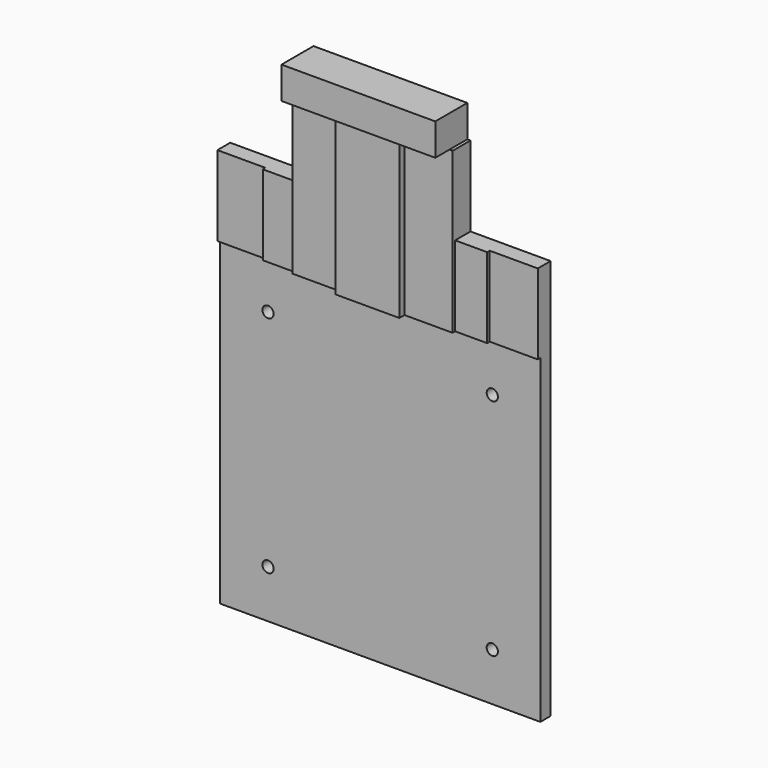
from build123d import *

# Parameters (mm, degrees)
F0_R     = 3.5
F1_DEPTH = 8
F0_W     = 30
F0_H     = 50
F2_DEPTH = 10
F0_W_2   = 20
F3_DEPTH = 12
F4_DEPTH = 14
F0_W_3   = 40
F5_DEPTH = 18
F6_DEPTH = 25


with BuildPart() as f1:
    # F0 (on Front) → F1 (new body)
    with BuildSketch(Plane.XZ):
        Polygon((-70, 100), (-100, 100), (-100, -100), (100, -100), (100, 100), (70, 100), (50, 100), (20, 100), (-20, 100), (-50, 100), align=None)
        with Locations((-70, -70)):
            Circle(F0_R, mode=Mode.SUBTRACT)
        with Locations((70, -70)):
            Circle(F0_R, mode=Mode.SUBTRACT)
        with Locations((-70, 70)):
            Circle(F0_R, mode=Mode.SUBTRACT)
        with Locations((70, 70)):
            Circle(F0_R, mode=Mode.SUBTRACT)
    extrude(amount=F1_DEPTH)

    # F0 (on Front) → F2 (join)
    with BuildSketch(Plane.XZ):
        with Locations((-85, 125)):
            Rectangle(F0_W, F0_H)
        with Locations((85, 125)):
            Rectangle(F0_W, F0_H)
    extrude(amount=F2_DEPTH)

    # F0 (on Front) → F3 (join)
    with BuildSketch(Plane.XZ):
        with Locations((-60, 125)):
            Rectangle(F0_W_2, F0_H)
        with Locations((60, 125)):
            Rectangle(F0_W_2, F0_H)
    extrude(amount=F3_DEPTH)

    # F0 (on Front) → F4 (join)
    with BuildSketch(Plane.XZ):
        with Locations((-35, 125)):
            Rectangle(F0_W, F0_H)
        with Locations((35, 125)):
            Rectangle(F0_W, F0_H)
        Polygon((-50, 200), (-50, 150), (-20, 150), (-20, 200), (-48, 200), align=None)
        Polygon((20, 200), (20, 150), (50, 150), (50, 200), (48, 200), align=None)
    extrude(amount=F4_DEPTH)

    # F0 (on Front) → F5 (join)
    with BuildSketch(Plane.XZ):
        with Locations((0, 125)):
            Rectangle(F0_W_3, F0_H)
        with Locations((0, 175)):
            Rectangle(F0_W_3, F0_H)
    extrude(amount=F5_DEPTH)

    # F0 (on Front) → F6 (join)
    with BuildSketch(Plane.XZ):
        Polygon((-48, 200), (-20, 200), (20, 200), (48, 200), (48, 220), (-48, 220), align=None)
    extrude(amount=F6_DEPTH)


solid = f1.part
